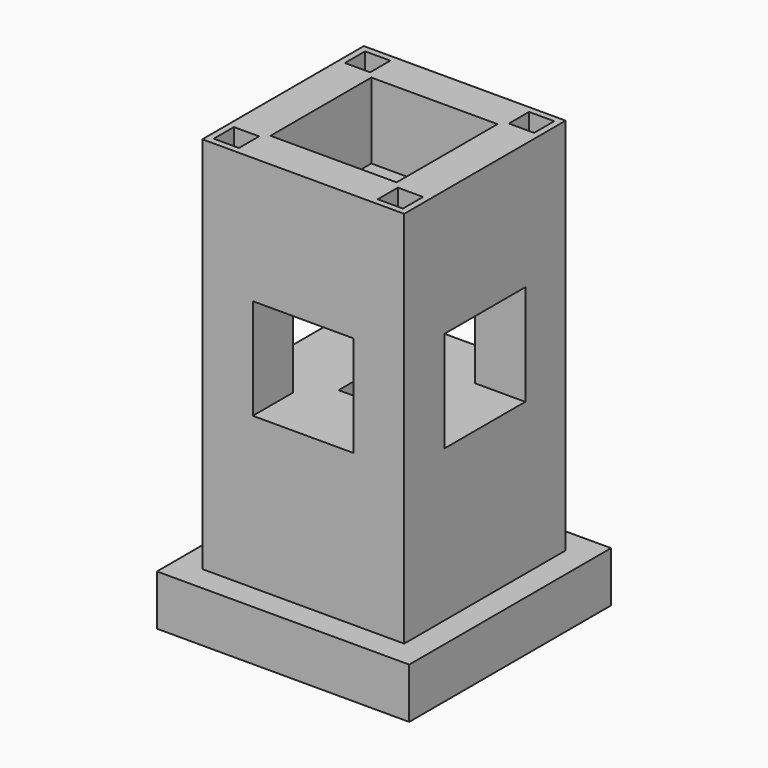
from build123d import *

# Parameters (mm, degrees)
F0_W      = 25.4
F0_H      = 25.4
F1_DEPTH  = 5.08
F2_W      = 20.32
F2_H      = 20.32
F3_DEPTH  = 38.1
F4_W      = 12.7
F4_H      = 12.7
F5_DEPTH  = 7.62
F6_W      = 10.16
F6_H      = 10.16
F7_DEPTH  = 25.4
F8_W      = 5.08
F8_H      = 5.08
F9_DEPTH  = 25.4
F10_W     = 10.16
F10_H     = 10.16
F11_DEPTH = 25.4
F12_W     = 2.54
F12_H     = 2.54
F13_DEPTH = 5.08


with BuildPart() as f1:
    # F0 (on Top) → F1 (new body)
    with BuildSketch(Plane.XY):
        with Locations((12.7, -12.7)):
            Rectangle(F0_W, F0_H)
    extrude(amount=F1_DEPTH)

    # F2 (on face) → F3 (join)
    with BuildSketch(Plane.XY.offset(5.08)):
        with Locations((12.7, -12.7)):
            Rectangle(F2_W, F2_H)
    extrude(amount=F3_DEPTH)

    # F4 (on face) → F5 (cut)
    with BuildSketch(Plane.XY.offset(43.18)):
        with Locations((12.7, -12.7)):
            Rectangle(F4_W, F4_H)
    extrude(amount=-F5_DEPTH, mode=Mode.SUBTRACT)

    # F6 (on face) → F7 (cut)
    with BuildSketch(Plane.YZ.offset(22.86)):
        with Locations((-12.7, 25.4)):
            Rectangle(F6_W, F6_H)
    extrude(amount=-F7_DEPTH, mode=Mode.SUBTRACT)

    # F8 (on face) → F9 (cut)
    with BuildSketch(Plane.XY.offset(35.56)):
        with Locations((12.7, -12.7)):
            Rectangle(F8_W, F8_H)
    extrude(amount=-F9_DEPTH, mode=Mode.SUBTRACT)

    # F10 (on face) → F11 (cut)
    with BuildSketch(Plane.XZ.offset(22.86)):
        with Locations((12.7, 25.4)):
            Rectangle(F10_W, F10_H)
    extrude(amount=-F11_DEPTH, mode=Mode.SUBTRACT)

    # F12 (on face) → F13 (cut)
    with BuildSketch(Plane.XY.offset(43.18)):
        with Locations((20.955, -4.445)):
            Rectangle(F12_W, F12_H)
        with Locations((4.445, -4.445)):
            Rectangle(F12_W, F12_H)
        with Locations((4.445, -20.955)):
            Rectangle(F12_W, F12_H)
        with Locations((20.955, -20.955)):
            Rectangle(F12_W, F12_H)
    extrude(amount=-F13_DEPTH, mode=Mode.SUBTRACT)


solid = f1.part
